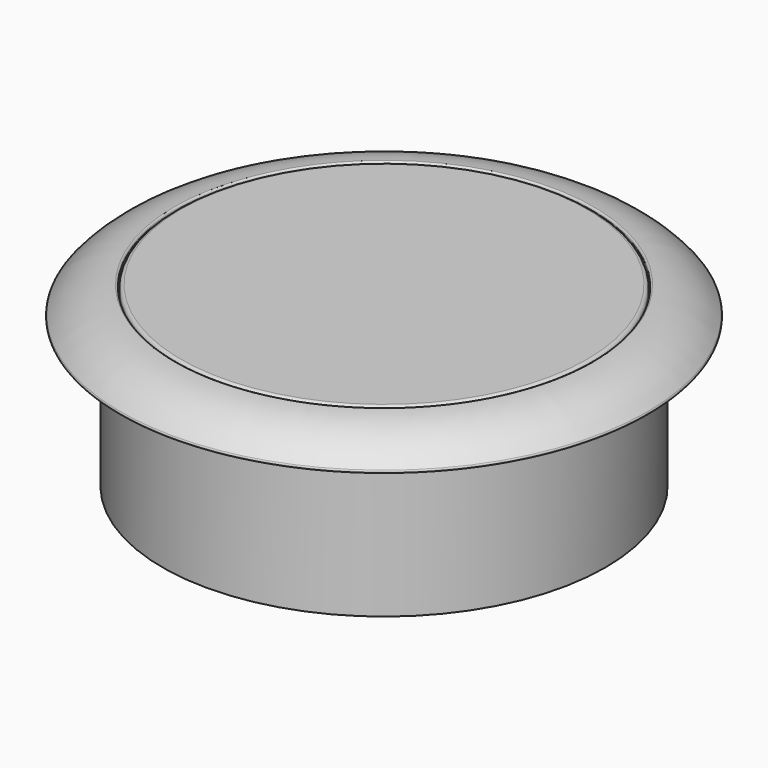
from build123d import *

# Parameters (mm, degrees)
F0_R     = 30
F0_R_2   = 27
F1_DEPTH = 20
F4_R     = 0.25
F6_R     = 0.5
F7_R     = 25.5
F8_DEPTH = 2.75


with BuildPart() as f1:
    # F0 (on Top) → F1 (new body)
    with BuildSketch(Plane.XY):
        Circle(F0_R)
        Circle(F0_R_2, mode=Mode.SUBTRACT)
    extrude(amount=-F1_DEPTH)

    # F2 (on Front) → F3 (revolve)
    with BuildSketch(Plane.XZ):
        with BuildLine():
            Line((-30, 0), (-27, 0))
            Line((-27, 0), (-27, 0.25))
            Line((-27, 0.25), (-28, 0.25))
            ThreePointArc((-28, 0.25), (-28.4666764937, 2.125), (-28, 4))
            ThreePointArc((-28, 4), (-32.472135955, 2.94427191), (-36, 0))
            Line((-36, 0), (-30, 0))
        make_face()
    revolve(axis=Axis((0, 0, 2), (0, 0, -1)))

    # F4
    f4_edges = [f1.edges().sort_by_distance(p)[0] for p in [
        (28, 0, 4),
        (36, 0, 0),
    ]]
    fillet(f4_edges, radius=F4_R)


with BuildPart() as f5:
    # F2 (on Front) → F5 (revolve)
    with BuildSketch(Plane.XZ):
        Polygon((-28, 0.25), (-27, 0.25), (0, 0.25), (0, 4), (-28, 4), align=None)
    revolve(axis=Axis((0, 0, 2.125), (0, 0, 1)))

    # F6
    f6_edges = [f5.edges().sort_by_distance(p)[0] for p in [
        (28, 0, 4),
        (28, 0, 0.25),
    ]]
    fillet(f6_edges, radius=F6_R)

    # F7 (on face) → F8 (cut)
    with BuildSketch(Plane(origin=(0, 0, 0.25), x_dir=(1, 0, 0), z_dir=(0, 0, -1))):
        Circle(F7_R)
    extrude(amount=-F8_DEPTH, mode=Mode.SUBTRACT)


solid = Compound([f1.part, f5.part])
